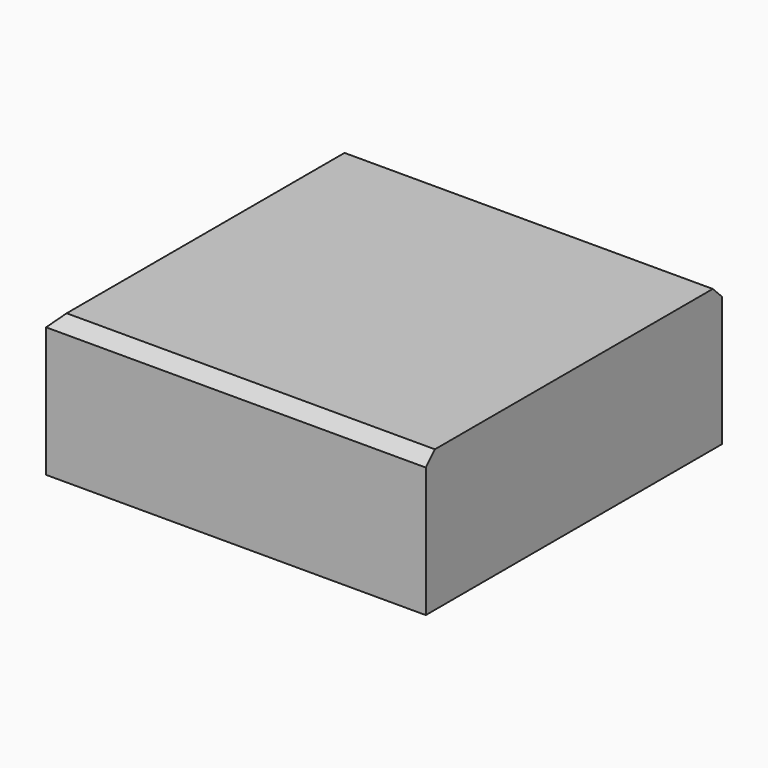
from build123d import *

# Parameters (mm, degrees)
F0_W     = 166.16489
F0_H     = 61.853946
F1_DEPTH = 81
F2_SIZE  = 5


with BuildPart() as f1:
    # F0 (on Front) → F1 (new body)
    with BuildSketch(Plane.XZ):
        Rectangle(F0_W, F0_H)
    extrude(amount=F1_DEPTH)

    # F2
    f2_edges = [f1.edges().sort_by_distance(p)[0] for p in [
        (0, -81, 30.926973),
        (-83.082445, -40.5, 30.926973),
    ]]
    chamfer(f2_edges, length=F2_SIZE)

    # F3: F1 across face


with BuildPart() as f1_1:
    add(f1.part)
    add(f1.part.mirror(Plane(origin=(0.099138, 0, -0.03563), x_dir=(1, 0, 0), z_dir=(0, 1, 0))))


solid = f1_1.part
